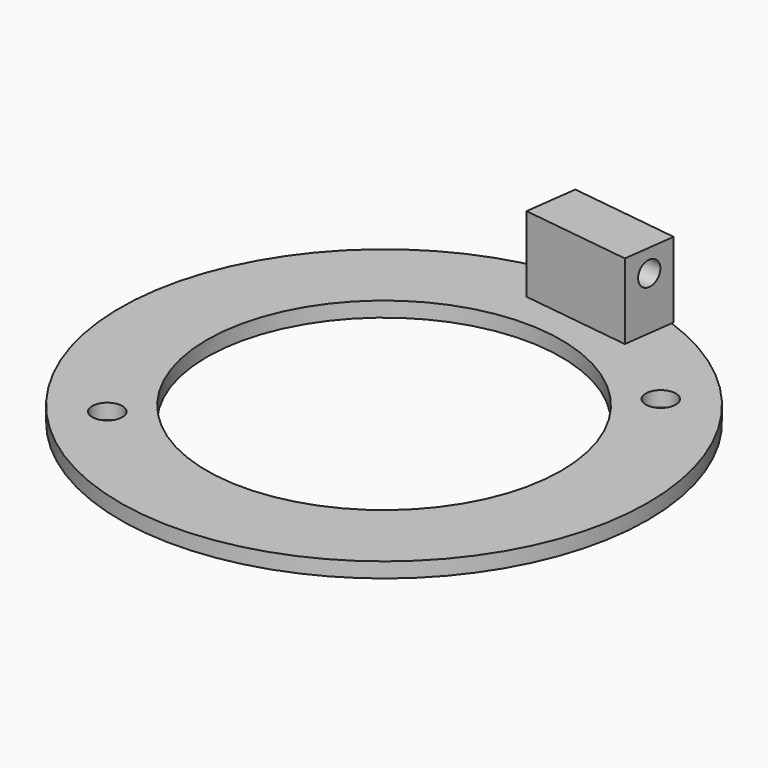
from build123d import *

# Parameters (mm, degrees)
F0_R     = 35
F0_R_2   = 23.5
F1_DEPTH = 2
F2_R     = 2
F3_DEPTH = 2.001
F5_DEPTH = 10
F6_R     = 1.6
F7_DEPTH = 46.636965


with BuildPart() as f1:
    # F0 (on Top) → F1 (new body)
    with BuildSketch(Plane.XY):
        Circle(F0_R)
        Circle(F0_R_2, mode=Mode.SUBTRACT)
    extrude(amount=F1_DEPTH)

    # F2 (on Top) → F3 (cut, through all)
    with BuildSketch(Plane.XY):
        with Locations((-21.5, -19)):
            Circle(F2_R)
        with Locations((21.5, 19)):
            Circle(F2_R)
    extrude(amount=F3_DEPTH, mode=Mode.SUBTRACT)

    # F4 (on face) → F5 (join)
    with BuildSketch(Plane.XY.offset(2)):
        Polygon((11.80901, 33.238829), (-2.764145, 35.165779), (-3.68174, 28.226181), (10.891415, 26.299231), align=None)
    extrude(amount=F5_DEPTH)

    # F6 (on face) → F7 (cut, through all)
    with BuildSketch(Plane(origin=(-7.286578, 0.963475, 0), x_dir=(-0.131085, -0.991371, 0), z_dir=(-0.991371, 0.131085, 0))):
        with Locations((-31, 9)):
            Circle(F6_R)
    extrude(amount=-F7_DEPTH, mode=Mode.SUBTRACT)


solid = f1.part
